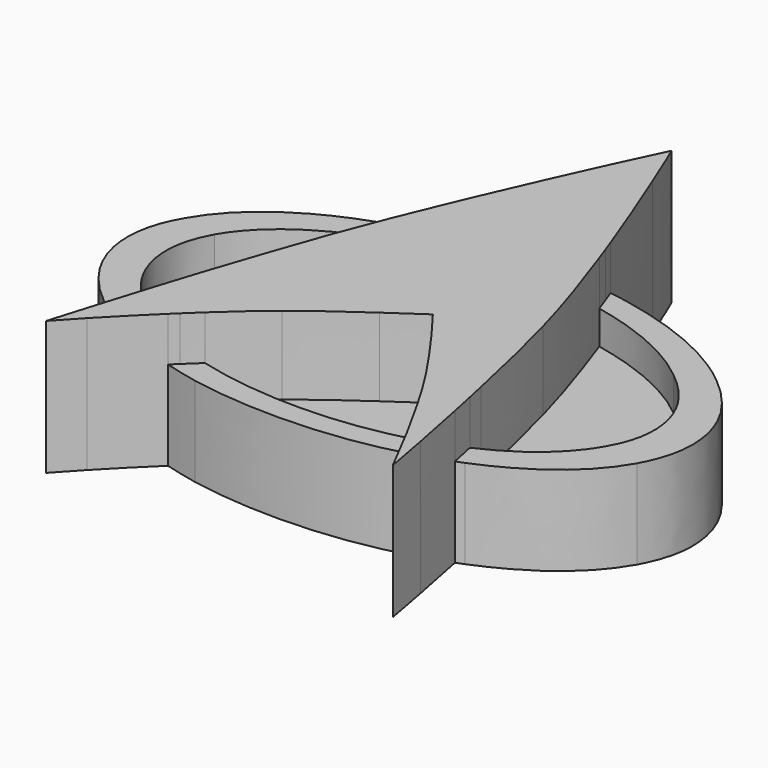
from build123d import *

# Parameters (mm, degrees)
F1_DEPTH = 12
F2_DEPTH = 8
F3_DEPTH = 5


with BuildPart() as f1:
    # F0 (on Top) → F1 (new body)
    with BuildSketch(Plane.XY):
        with BuildLine():
            add(Edge.make_bspline(
                [(-1.4531815777, 11.7301626551), (0.7233897885, 11.7301626551), (2.810070669, 11.5840887987), (4.8068605613, 11.291941086)],
                knots=[0, 0, 0, 0, 0.7950144081, 0.7950144081, 0.7950144081, 0.7950144081], degree=3))
            add(Edge.make_bspline(
                [(1.2668184223, 20.4234906551), (2.5033827063, 17.3796402471), (3.6833962836, 14.3357906343), (4.8068605724, 11.2919411076)],
                knots=[0, 0, 0, 0, 0.891752875, 0.891752875, 0.891752875, 0.891752875], degree=3))
            add(Edge.make_bspline(
                [(-0.5465175777, 24.7968266551), (-0.5109445777, 24.7968266551), (0.0935014223, 23.3390476551), (1.2668184223, 20.4234906551)],
                knots=[0, 0, 0, 0, 1, 1, 1, 1], degree=3))
            add(Edge.make_bspline(
                [(-2.5198455777, 20.6368266551), (-1.2398455777, 23.4101596551), (-0.5820695777, 24.7968266551), (-0.5465175777, 24.7968266551)],
                knots=[0, 0, 0, 0, 1, 1, 1, 1], degree=3))
            add(Edge.make_bspline(
                [(-6.6264275229, 11.4255176474), (-5.2736146078, 14.5601335147), (-3.9047539594, 17.6305701364), (-2.5198455777, 20.6368266551)],
                knots=[0.0499887283, 0.0499887283, 0.0499887283, 0.0499887283, 1, 1, 1, 1], degree=3))
            add(Edge.make_bspline(
                [(-6.626427534, 11.4255176702), (-4.9518282348, 11.6286143268), (-3.2274129278, 11.7301626551), (-1.4531815777, 11.7301626551)],
                knots=[0.6717087496, 0.6717087496, 0.6717087496, 0.6717087496, 1, 1, 1, 1], degree=3))
        make_face()
        with BuildLine():
            add(Edge.make_bspline(
                [(5.6539261047, 8.9627803018), (5.4905337572, 8.9972850323), (5.3259431964, 9.03085515), (5.1601544223, 9.0634906551)],
                knots=[0.9632849375, 0.9632849375, 0.9632849375, 0.9632849375, 1, 1, 1, 1], degree=3))
            add(Edge.make_bspline(
                [(5.2134824223, 10.1834906551), (5.3635979622, 9.7706729423), (5.510412523, 9.3637694912), (5.6539261047, 8.9627803018)],
                knots=[0, 0, 0, 0, 0.087958307, 0.087958307, 0.087958307, 0.087958307], degree=3))
            add(Edge.make_bspline(
                [(4.8068605724, 11.2919411076), (4.9432344296, 10.9224576226), (5.0787750454, 10.5529741388), (5.2134824223, 10.1834906551)],
                knots=[0.891752875, 0.891752875, 0.891752875, 0.891752875, 1, 1, 1, 1], degree=3))
            add(Edge.make_bspline(
                [(-1.4531815777, 11.7301626551), (0.7233897885, 11.7301626551), (2.810070669, 11.5840887987), (4.8068605613, 11.291941086)],
                knots=[0, 0, 0, 0, 0.7950144081, 0.7950144081, 0.7950144081, 0.7950144081], degree=3))
            add(Edge.make_bspline(
                [(-6.626427534, 11.4255176702), (-4.9518282348, 11.6286143268), (-3.2274129278, 11.7301626551), (-1.4531815777, 11.7301626551)],
                knots=[0.6717087496, 0.6717087496, 0.6717087496, 0.6717087496, 1, 1, 1, 1], degree=3))
            add(Edge.make_bspline(
                [(-6.8398455777, 10.9301626551), (-6.7687506585, 11.0954586833), (-6.6976113069, 11.2605770141), (-6.6264275229, 11.4255176474)],
                knots=[0, 0, 0, 0, 0.0499887283, 0.0499887283, 0.0499887283, 0.0499887283], degree=3))
            add(Edge.make_bspline(
                [(-7.5797278664, 9.2083211936), (-7.3390801697, 9.7736724398), (-7.0924527391, 10.3476195916), (-6.8398455777, 10.9301626551)],
                knots=[0.8550087925, 0.8550087925, 0.8550087925, 0.8550087925, 1, 1, 1, 1], degree=3))
            add(Edge.make_bspline(
                [(-1.6131815777, 9.7034906551), (-3.6737940745, 9.7034906551), (-5.6626428374, 9.5384341679), (-7.5797278664, 9.2083211936)],
                knots=[0, 0, 0, 0, 0.4492614129, 0.4492614129, 0.4492614129, 0.4492614129], degree=3))
            add(Edge.make_bspline(
                [(5.1601544223, 9.0634906551), (2.9201544223, 9.4901566551), (0.6623754223, 9.7034906551), (-1.6131815777, 9.7034906551)],
                knots=[0, 0, 0, 0, 1, 1, 1, 1], degree=3))
        make_face()
        with BuildLine():
            add(Edge.make_bspline(
                [(8.464063117, -14.4500767678), (7.9941080763, -13.6693761417), (7.5505811666, -12.960408334), (7.1334824223, -12.3231733449)],
                knots=[0.6741416061, 0.6741416061, 0.6741416061, 0.6741416061, 1, 1, 1, 1], degree=3))
            add(Edge.make_bspline(
                [(8.464063117, -14.4500767678), (9.3194202469, -14.1861228983), (10.1558933454, -13.8860430907), (10.9734824223, -13.5498373449)],
                knots=[0.7850962475, 0.7850962475, 0.7850962475, 0.7850962475, 1, 1, 1, 1], degree=3))
            add(Edge.make_bspline(
                [(10.9734824223, -13.5498373449), (11.2457602365, -13.4363882557), (11.5122283644, -13.3202577731), (11.7728868063, -13.2014458969)],
                knots=[0, 0, 0, 0, 0.0709056808, 0.0709056808, 0.0709056808, 0.0709056808], degree=3))
            add(Edge.make_bspline(
                [(11.4001544223, -11.4698373449), (11.5272373981, -12.054421464), (11.6514815357, -12.6316243227), (11.7728868235, -13.2014459207)],
                knots=[0, 0, 0, 0, 0.1787109653, 0.1787109653, 0.1787109653, 0.1787109653], degree=3))
            add(Edge.make_bspline(
                [(9.0534824223, -1.6031733449), (9.7645974223, -4.1987313449), (10.5468214223, -7.4876193449), (11.4001544223, -11.4698373449)],
                knots=[0, 0, 0, 0, 1, 1, 1, 1], degree=3))
            add(Edge.make_bspline(
                [(5.6539261047, 8.9627803018), (7.1420217091, 4.8049142431), (8.2752071483, 1.2829296942), (9.0534824223, -1.6031733449)],
                knots=[0.087958307, 0.087958307, 0.087958307, 0.087958307, 1, 1, 1, 1], degree=3))
            add(Edge.make_bspline(
                [(5.6539261047, 8.9627803018), (5.4905337572, 8.9972850323), (5.3259431964, 9.03085515), (5.1601544223, 9.0634906551)],
                knots=[0.9632849375, 0.9632849375, 0.9632849375, 0.9632849375, 1, 1, 1, 1], degree=3))
            add(Edge.make_bspline(
                [(5.1601544223, 9.0634906551), (2.9201544223, 9.4901566551), (0.6623754223, 9.7034906551), (-1.6131815777, 9.7034906551)],
                knots=[0, 0, 0, 0, 1, 1, 1, 1], degree=3))
            add(Edge.make_bspline(
                [(-1.6131815777, 9.7034906551), (-3.6737940745, 9.7034906551), (-5.6626428374, 9.5384341679), (-7.5797278664, 9.2083211936)],
                knots=[0, 0, 0, 0, 0.4492614129, 0.4492614129, 0.4492614129, 0.4492614129], degree=3))
            add(Edge.make_bspline(
                [(-11.2131815777, 0.1034906551), (-10.2099715461, 2.8395187912), (-8.9988201007, 5.8744618873), (-7.5797278664, 9.2083211936)],
                knots=[0, 0, 0, 0, 0.8550087925, 0.8550087925, 0.8550087925, 0.8550087925], degree=3))
            add(Edge.make_bspline(
                [(-14.6265175777, -9.8165093449), (-13.4887365777, -6.3676193449), (-12.3509575777, -3.0609523449), (-11.2131815777, 0.1034906551)],
                knots=[0, 0, 0, 0, 1, 1, 1, 1], degree=3))
            add(Edge.make_bspline(
                [(-15.6386486362, -12.985674488), (-15.233880432, -11.6987374646), (-14.8965034422, -10.642349143), (-14.6265175777, -9.8165093449)],
                knots=[0.5533311421, 0.5533311421, 0.5533311421, 0.5533311421, 1, 1, 1, 1], degree=3))
            add(Edge.make_bspline(
                [(-15.6386486355, -12.9856744871), (-14.1706370526, -13.6951825669), (-12.5416633345, -14.2847581951), (-10.7517275561, -14.7544012221)],
                knots=[0.4115792807, 0.4115792807, 0.4115792807, 0.4115792807, 0.832924486, 0.832924486, 0.832924486, 0.832924486], degree=3))
            add(Edge.make_bspline(
                [(-6.6798455777, -11.2031733449), (-7.9512044067, -12.2257890522), (-9.3084985561, -13.4095315214), (-10.7517275561, -14.7544012221)],
                knots=[0, 0, 0, 0, 0.7773246845, 0.7773246845, 0.7773246845, 0.7773246845], degree=3))
            add(Edge.make_bspline(
                [(-1.1865175777, -7.1498373449), (-3.6398505777, -8.8565043449), (-5.4709605777, -10.2076163449), (-6.6798455777, -11.2031733449)],
                knots=[0, 0, 0, 0, 1, 1, 1, 1], degree=3))
            add(Edge.make_bspline(
                [(1.9068184223, -5.0165093449), (0.5912614223, -5.9053953449), (-0.4398505777, -6.6165043449), (-1.1865175777, -7.1498373449)],
                knots=[0, 0, 0, 0, 1, 1, 1, 1], degree=3))
            add(Edge.make_bspline(
                [(3.8268184223, -7.5765093449), (3.3645944223, -6.9365093449), (2.7245944223, -6.0831763449), (1.9068184223, -5.0165093449)],
                knots=[0, 0, 0, 0, 1, 1, 1, 1], degree=3))
            add(Edge.make_bspline(
                [(7.1334824223, -12.3231733449), (6.2445974223, -10.9720643449), (5.1423754223, -9.3898433449), (3.8268184223, -7.5765093449)],
                knots=[0, 0, 0, 0, 1, 1, 1, 1], degree=3))
        make_face()
        with BuildLine():
            add(Edge.make_bspline(
                [(-12.6353390022, -16.5486190627), (-13.9495070847, -16.1735784882), (-15.1867956587, -15.741541003), (-16.347204765, -15.252506607)],
                knots=[0.2006849303, 0.2006849303, 0.2006849303, 0.2006849303, 0.4737412626, 0.4737412626, 0.4737412626, 0.4737412626], degree=3))
            add(Edge.make_bspline(
                [(-12.0131815777, -15.9498373449), (-12.2225201788, -16.1502681737), (-12.4299059877, -16.3498620803), (-12.6353390022, -16.5486190627)],
                knots=[0, 0, 0, 0, 0.125269268, 0.125269268, 0.125269268, 0.125269268], degree=3))
            add(Edge.make_bspline(
                [(-10.7517275561, -14.7544012221), (-11.1651602944, -15.1396575903), (-11.5856449719, -15.5381362942), (-12.0131815777, -15.9498373449)],
                knots=[0.7773246845, 0.7773246845, 0.7773246845, 0.7773246845, 1, 1, 1, 1], degree=3))
            add(Edge.make_bspline(
                [(-15.6386486355, -12.9856744871), (-14.1706370526, -13.6951825669), (-12.5416633345, -14.2847581951), (-10.7517275561, -14.7544012221)],
                knots=[0.4115792807, 0.4115792807, 0.4115792807, 0.4115792807, 0.832924486, 0.832924486, 0.832924486, 0.832924486], degree=3))
            add(Edge.make_bspline(
                [(-16.3472047665, -15.2525066097), (-16.0916780824, -14.4307283398), (-15.8554927103, -13.6751176417), (-15.6386486362, -12.985674488)],
                knots=[0.3140398788, 0.3140398788, 0.3140398788, 0.3140398788, 0.5533311421, 0.5533311421, 0.5533311421, 0.5533311421], degree=3))
        make_face()
        with BuildLine():
            add(Edge.make_bspline(
                [(-12.6353390022, -16.5486190627), (-14.0698374555, -17.9365000928), (-15.4091185371, -19.2835730767), (-16.6531815777, -20.5898373449)],
                knots=[0.125269268, 0.125269268, 0.125269268, 0.125269268, 1, 1, 1, 1], degree=3))
            add(Edge.make_bspline(
                [(-12.6353390022, -16.5486190627), (-13.9495070847, -16.1735784882), (-15.1867956587, -15.741541003), (-16.347204765, -15.252506607)],
                knots=[0.2006849303, 0.2006849303, 0.2006849303, 0.2006849303, 0.4737412626, 0.4737412626, 0.4737412626, 0.4737412626], degree=3))
            add(Edge.make_bspline(
                [(-17.4531815777, -18.8298373449), (-17.0512105328, -17.5234314491), (-16.6825516061, -16.3309878913), (-16.3472047665, -15.2525066097)],
                knots=[0, 0, 0, 0, 0.3140398788, 0.3140398788, 0.3140398788, 0.3140398788], degree=3))
            add(Edge.make_bspline(
                [(-18.6265175777, -22.7231733449), (-18.2354025777, -21.4431733449), (-17.8442905777, -20.1453953449), (-17.4531815777, -18.8298373449)],
                knots=[0, 0, 0, 0, 1, 1, 1, 1], degree=3))
            add(Edge.make_bspline(
                [(-16.6531815777, -20.5898373449), (-17.3287385777, -21.3009523449), (-17.9865175777, -22.0120643449), (-18.6265175777, -22.7231733449)],
                knots=[0, 0, 0, 0, 1, 1, 1, 1], degree=3))
        make_face()
        with BuildLine():
            add(Edge.make_bspline(
                [(9.5967249593, -16.3811875932), (9.2035002428, -15.6949494144), (8.82594629, -15.0512458059), (8.464063117, -14.4500767678)],
                knots=[0.4232183063, 0.4232183063, 0.4232183063, 0.4232183063, 0.6741416061, 0.6741416061, 0.6741416061, 0.6741416061], degree=3))
            add(Edge.make_bspline(
                [(12.2512191941, -15.4793214616), (11.3825109105, -15.8134797777), (10.4976794993, -16.1141018251), (9.5967249607, -16.3811876107)],
                knots=[0.0510914301, 0.0510914301, 0.0510914301, 0.0510914301, 0.241557056, 0.241557056, 0.241557056, 0.241557056], degree=3))
            add(Edge.make_bspline(
                [(11.7728868235, -13.2014459207), (11.9375534539, -13.9743167248), (12.0969975849, -14.7336085683), (12.2512191882, -15.4793214513)],
                knots=[0.1787109653, 0.1787109653, 0.1787109653, 0.1787109653, 0.4211034753, 0.4211034753, 0.4211034753, 0.4211034753], degree=3))
            add(Edge.make_bspline(
                [(10.9734824223, -13.5498373449), (11.2457602365, -13.4363882557), (11.5122283644, -13.3202577731), (11.7728868063, -13.2014458969)],
                knots=[0, 0, 0, 0, 0.0709056808, 0.0709056808, 0.0709056808, 0.0709056808], degree=3))
            add(Edge.make_bspline(
                [(8.464063117, -14.4500767678), (9.3194202469, -14.1861228983), (10.1558933454, -13.8860430907), (10.9734824223, -13.5498373449)],
                knots=[0.7850962475, 0.7850962475, 0.7850962475, 0.7850962475, 1, 1, 1, 1], degree=3))
        make_face()
        with BuildLine():
            add(Edge.make_bspline(
                [(14.0134824223, -24.6431733449), (13.0534824223, -22.7942833449), (12.2890394223, -21.3187283449), (11.7201544223, -20.2165093449)],
                knots=[0, 0, 0, 0, 1, 1, 1, 1], degree=3))
            add(Edge.make_bspline(
                [(13.2668184223, -20.5898373449), (13.5157094223, -21.9409523449), (13.7645974223, -23.2920643449), (14.0134824223, -24.6431733449)],
                knots=[0, 0, 0, 0, 1, 1, 1, 1], degree=3))
            add(Edge.make_bspline(
                [(12.2512191882, -15.4793214513), (12.6195405947, -17.2602782822), (12.9580738021, -18.96378358), (13.2668184223, -20.5898373449)],
                knots=[0.4211034753, 0.4211034753, 0.4211034753, 0.4211034753, 1, 1, 1, 1], degree=3))
            add(Edge.make_bspline(
                [(12.2512191941, -15.4793214616), (11.3825109105, -15.8134797777), (10.4976794993, -16.1141018251), (9.5967249607, -16.3811876107)],
                knots=[0.0510914301, 0.0510914301, 0.0510914301, 0.0510914301, 0.241557056, 0.241557056, 0.241557056, 0.241557056], degree=3))
            add(Edge.make_bspline(
                [(11.7201544223, -20.2165093449), (10.9677649586, -18.817067761), (10.2599551124, -17.5386271772), (9.5967249593, -16.3811875932)],
                knots=[0, 0, 0, 0, 0.4232183063, 0.4232183063, 0.4232183063, 0.4232183063], degree=3))
        make_face()
    extrude(amount=F1_DEPTH)

    # F0 (on Top) → F2 (join)
    with BuildSketch(Plane.XY):
        with BuildLine():
            add(Edge.make_bspline(
                [(-16.347204765, -15.252506607), (-18.5836496262, -14.3099955082), (-20.5345297999, -13.1557724208), (-22.1998455777, -11.7898373449)],
                knots=[0.4737412626, 0.4737412626, 0.4737412626, 0.4737412626, 1, 1, 1, 1], degree=3))
            add(Edge.make_bspline(
                [(-16.3472047665, -15.2525066097), (-16.0916780824, -14.4307283398), (-15.8554927103, -13.6751176417), (-15.6386486362, -12.985674488)],
                knots=[0.3140398788, 0.3140398788, 0.3140398788, 0.3140398788, 0.5533311421, 0.5533311421, 0.5533311421, 0.5533311421], degree=3))
            add(Edge.make_bspline(
                [(-19.4798455777, -10.5631733449), (-18.3530337008, -11.4851109337), (-17.0726346968, -12.292611361), (-15.6386486355, -12.9856744871)],
                knots=[0, 0, 0, 0, 0.4115792807, 0.4115792807, 0.4115792807, 0.4115792807], degree=3))
            add(Edge.make_bspline(
                [(-23.5331815777, -3.0965093449), (-23.5331815777, -5.7987283449), (-22.1820695777, -8.2876163449), (-19.4798455777, -10.5631733449)],
                knots=[0, 0, 0, 0, 1, 1, 1, 1], degree=3))
            add(Edge.make_bspline(
                [(-22.4131815777, 0.9034906551), (-23.1598485777, -0.4476193449), (-23.5331815777, -1.7809523449), (-23.5331815777, -3.0965093449)],
                knots=[0, 0, 0, 0, 1, 1, 1, 1], degree=3))
            add(Edge.make_bspline(
                [(-14.3065175777, 7.2501626551), (-18.1820695777, 5.6501626551), (-20.8842905777, 3.5346046551), (-22.4131815777, 0.9034906551)],
                knots=[0, 0, 0, 0, 1, 1, 1, 1], degree=3))
            add(Edge.make_bspline(
                [(-7.5797278664, 9.2083211936), (-9.9298355541, 8.8036437656), (-12.1720987912, 8.1509242527), (-14.3065175777, 7.2501626551)],
                knots=[0.4492614129, 0.4492614129, 0.4492614129, 0.4492614129, 1, 1, 1, 1], degree=3))
            add(Edge.make_bspline(
                [(-7.5797278664, 9.2083211936), (-7.3390801697, 9.7736724398), (-7.0924527391, 10.3476195916), (-6.8398455777, 10.9301626551)],
                knots=[0.8550087925, 0.8550087925, 0.8550087925, 0.8550087925, 1, 1, 1, 1], degree=3))
            add(Edge.make_bspline(
                [(-6.8398455777, 10.9301626551), (-6.7687506585, 11.0954586833), (-6.6976113069, 11.2605770141), (-6.6264275229, 11.4255176474)],
                knots=[0, 0, 0, 0, 0.0499887283, 0.0499887283, 0.0499887283, 0.0499887283], degree=3))
            add(Edge.make_bspline(
                [(-16.2798455777, 8.9034906551), (-13.2705903794, 10.1692908649), (-10.0527844659, 11.0099665366), (-6.626427534, 11.4255176702)],
                knots=[0, 0, 0, 0, 0.6717087496, 0.6717087496, 0.6717087496, 0.6717087496], degree=3))
            add(Edge.make_bspline(
                [(-25.6131815777, 1.4901626551), (-23.8709575777, 4.5834956551), (-20.7598455777, 7.0546046551), (-16.2798455777, 8.9034906551)],
                knots=[0, 0, 0, 0, 1, 1, 1, 1], degree=3))
            add(Edge.make_bspline(
                [(-26.9465155777, -3.1498373449), (-26.9465155777, -1.5853953449), (-26.5020705777, -0.0387283449), (-25.6131815777, 1.4901626551)],
                knots=[0, 0, 0, 0, 1, 1, 1, 1], degree=3))
            add(Edge.make_bspline(
                [(-22.1998455777, -11.7898373449), (-25.3642915777, -9.1587283449), (-26.9465155777, -6.2787283449), (-26.9465155777, -3.1498373449)],
                knots=[0, 0, 0, 0, 1, 1, 1, 1], degree=3))
        make_face()
        with BuildLine():
            add(Edge.make_bspline(
                [(5.6539261047, 8.9627803018), (5.4905337572, 8.9972850323), (5.3259431964, 9.03085515), (5.1601544223, 9.0634906551)],
                knots=[0.9632849375, 0.9632849375, 0.9632849375, 0.9632849375, 1, 1, 1, 1], degree=3))
            add(Edge.make_bspline(
                [(5.2134824223, 10.1834906551), (5.3635979622, 9.7706729423), (5.510412523, 9.3637694912), (5.6539261047, 8.9627803018)],
                knots=[0, 0, 0, 0, 0.087958307, 0.087958307, 0.087958307, 0.087958307], degree=3))
            add(Edge.make_bspline(
                [(4.8068605724, 11.2919411076), (4.9432344296, 10.9224576226), (5.0787750454, 10.5529741388), (5.2134824223, 10.1834906551)],
                knots=[0.891752875, 0.891752875, 0.891752875, 0.891752875, 1, 1, 1, 1], degree=3))
            add(Edge.make_bspline(
                [(-1.4531815777, 11.7301626551), (0.7233897885, 11.7301626551), (2.810070669, 11.5840887987), (4.8068605613, 11.291941086)],
                knots=[0, 0, 0, 0, 0.7950144081, 0.7950144081, 0.7950144081, 0.7950144081], degree=3))
            add(Edge.make_bspline(
                [(-6.626427534, 11.4255176702), (-4.9518282348, 11.6286143268), (-3.2274129278, 11.7301626551), (-1.4531815777, 11.7301626551)],
                knots=[0.6717087496, 0.6717087496, 0.6717087496, 0.6717087496, 1, 1, 1, 1], degree=3))
            add(Edge.make_bspline(
                [(-6.8398455777, 10.9301626551), (-6.7687506585, 11.0954586833), (-6.6976113069, 11.2605770141), (-6.6264275229, 11.4255176474)],
                knots=[0, 0, 0, 0, 0.0499887283, 0.0499887283, 0.0499887283, 0.0499887283], degree=3))
            add(Edge.make_bspline(
                [(-7.5797278664, 9.2083211936), (-7.3390801697, 9.7736724398), (-7.0924527391, 10.3476195916), (-6.8398455777, 10.9301626551)],
                knots=[0.8550087925, 0.8550087925, 0.8550087925, 0.8550087925, 1, 1, 1, 1], degree=3))
            add(Edge.make_bspline(
                [(-1.6131815777, 9.7034906551), (-3.6737940745, 9.7034906551), (-5.6626428374, 9.5384341679), (-7.5797278664, 9.2083211936)],
                knots=[0, 0, 0, 0, 0.4492614129, 0.4492614129, 0.4492614129, 0.4492614129], degree=3))
            add(Edge.make_bspline(
                [(5.1601544223, 9.0634906551), (2.9201544223, 9.4901566551), (0.6623754223, 9.7034906551), (-1.6131815777, 9.7034906551)],
                knots=[0, 0, 0, 0, 1, 1, 1, 1], degree=3))
        make_face()
        with BuildLine():
            add(Edge.make_bspline(
                [(11.7728868235, -13.2014459207), (11.9375534539, -13.9743167248), (12.0969975849, -14.7336085683), (12.2512191882, -15.4793214513)],
                knots=[0.1787109653, 0.1787109653, 0.1787109653, 0.1787109653, 0.4211034753, 0.4211034753, 0.4211034753, 0.4211034753], degree=3))
            add(Edge.make_bspline(
                [(12.9468184223, -15.2031733449), (12.7161121577, -15.2976358301), (12.4842457483, -15.3896852023), (12.2512191941, -15.4793214616)],
                knots=[0, 0, 0, 0, 0.0510914301, 0.0510914301, 0.0510914301, 0.0510914301], degree=3))
            add(Edge.make_bspline(
                [(22.3868184223, -7.7365093449), (20.6445944223, -10.8298433449), (17.4979274223, -13.3187313449), (12.9468184223, -15.2031733449)],
                knots=[0, 0, 0, 0, 1, 1, 1, 1], degree=3))
            add(Edge.make_bspline(
                [(23.6668184223, -3.1498373449), (23.6668184223, -4.6431713449), (23.2401514223, -6.1720613449), (22.3868184223, -7.7365093449)],
                knots=[0, 0, 0, 0, 1, 1, 1, 1], degree=3))
            add(Edge.make_bspline(
                [(18.9201544223, 5.5434906551), (22.0845974223, 2.9123806551), (23.6668184223, 0.0146046551), (23.6668184223, -3.1498373449)],
                knots=[0, 0, 0, 0, 1, 1, 1, 1], degree=3))
            add(Edge.make_bspline(
                [(6.3334824223, 11.0368266551), (11.5601494223, 10.0057166551), (15.7557064223, 8.1746046551), (18.9201544223, 5.5434906551)],
                knots=[0, 0, 0, 0, 1, 1, 1, 1], degree=3))
            add(Edge.make_bspline(
                [(4.8068605613, 11.291941086), (5.3217105487, 11.216614059), (5.8305845052, 11.1315759153), (6.3334824223, 11.0368266551)],
                knots=[0.7950144081, 0.7950144081, 0.7950144081, 0.7950144081, 1, 1, 1, 1], degree=3))
            add(Edge.make_bspline(
                [(4.8068605724, 11.2919411076), (4.9432344296, 10.9224576226), (5.0787750454, 10.5529741388), (5.2134824223, 10.1834906551)],
                knots=[0.891752875, 0.891752875, 0.891752875, 0.891752875, 1, 1, 1, 1], degree=3))
            add(Edge.make_bspline(
                [(5.2134824223, 10.1834906551), (5.3635979622, 9.7706729423), (5.510412523, 9.3637694912), (5.6539261047, 8.9627803018)],
                knots=[0, 0, 0, 0, 0.087958307, 0.087958307, 0.087958307, 0.087958307], degree=3))
            add(Edge.make_bspline(
                [(16.0401544223, 4.3168266551), (13.402891223, 6.5088364375), (9.9408148191, 8.0574873551), (5.6539261047, 8.9627803018)],
                knots=[0, 0, 0, 0, 0.9632849375, 0.9632849375, 0.9632849375, 0.9632849375], degree=3))
            add(Edge.make_bspline(
                [(20.2001544223, -3.0965093449), (20.2001544223, -0.3942853449), (18.8134874223, 2.0768266551), (16.0401544223, 4.3168266551)],
                knots=[0, 0, 0, 0, 1, 1, 1, 1], degree=3))
            add(Edge.make_bspline(
                [(19.0268184223, -7.1498373449), (19.8090424223, -5.8342853449), (20.2001544223, -4.4831763449), (20.2001544223, -3.0965093449)],
                knots=[0, 0, 0, 0, 1, 1, 1, 1], degree=3))
            add(Edge.make_bspline(
                [(11.7728868063, -13.2014458969), (15.1883575415, -11.6446250892), (17.6063344795, -9.6274225059), (19.0268184223, -7.1498373449)],
                knots=[0.0709056808, 0.0709056808, 0.0709056808, 0.0709056808, 1, 1, 1, 1], degree=3))
        make_face()
        with BuildLine():
            add(Edge.make_bspline(
                [(9.5967249607, -16.3811876107), (6.0090822611, -17.4447355789), (2.1657800817, -17.9765093449), (-1.9331815777, -17.9765093449)],
                knots=[0.241557056, 0.241557056, 0.241557056, 0.241557056, 1, 1, 1, 1], degree=3))
            add(Edge.make_bspline(
                [(9.5967249593, -16.3811875932), (9.2035002428, -15.6949494144), (8.82594629, -15.0512458059), (8.464063117, -14.4500767678)],
                knots=[0.4232183063, 0.4232183063, 0.4232183063, 0.4232183063, 0.6741416061, 0.6741416061, 0.6741416061, 0.6741416061], degree=3))
            add(Edge.make_bspline(
                [(-1.6665175777, -15.8965093449), (1.9623731398, -15.8965093449), (5.33923321, -15.4143651525), (8.464063117, -14.4500767678)],
                knots=[0, 0, 0, 0, 0.7850962475, 0.7850962475, 0.7850962475, 0.7850962475], degree=3))
            add(Edge.make_bspline(
                [(-8.5465175777, -15.2565093449), (-6.2354025777, -15.6831763449), (-3.9420695777, -15.8965093449), (-1.6665175777, -15.8965093449)],
                knots=[0, 0, 0, 0, 1, 1, 1, 1], degree=3))
            add(Edge.make_bspline(
                [(-10.7517275561, -14.7544012221), (-10.0419664473, -14.9406282139), (-9.3068964529, -15.1079975913), (-8.5465175777, -15.2565093449)],
                knots=[0.832924486, 0.832924486, 0.832924486, 0.832924486, 1, 1, 1, 1], degree=3))
            add(Edge.make_bspline(
                [(-10.7517275561, -14.7544012221), (-11.1651602944, -15.1396575903), (-11.5856449719, -15.5381362942), (-12.0131815777, -15.9498373449)],
                knots=[0.7773246845, 0.7773246845, 0.7773246845, 0.7773246845, 1, 1, 1, 1], degree=3))
            add(Edge.make_bspline(
                [(-12.0131815777, -15.9498373449), (-12.2225201788, -16.1502681737), (-12.4299059877, -16.3498620803), (-12.6353390022, -16.5486190627)],
                knots=[0, 0, 0, 0, 0.125269268, 0.125269268, 0.125269268, 0.125269268], degree=3))
            add(Edge.make_bspline(
                [(-9.6131815777, -17.2831733449), (-10.6620948804, -17.069109553), (-11.6694806832, -16.8242581256), (-12.6353390022, -16.5486190627)],
                knots=[0, 0, 0, 0, 0.2006849303, 0.2006849303, 0.2006849303, 0.2006849303], degree=3))
            add(Edge.make_bspline(
                [(-1.9331815777, -17.9765093449), (-4.5998485777, -17.9765093449), (-7.1598485777, -17.7453973449), (-9.6131815777, -17.2831733449)],
                knots=[0, 0, 0, 0, 1, 1, 1, 1], degree=3))
        make_face()
        with BuildLine():
            add(Edge.make_bspline(
                [(-12.6353390022, -16.5486190627), (-13.9495070847, -16.1735784882), (-15.1867956587, -15.741541003), (-16.347204765, -15.252506607)],
                knots=[0.2006849303, 0.2006849303, 0.2006849303, 0.2006849303, 0.4737412626, 0.4737412626, 0.4737412626, 0.4737412626], degree=3))
            add(Edge.make_bspline(
                [(-12.0131815777, -15.9498373449), (-12.2225201788, -16.1502681737), (-12.4299059877, -16.3498620803), (-12.6353390022, -16.5486190627)],
                knots=[0, 0, 0, 0, 0.125269268, 0.125269268, 0.125269268, 0.125269268], degree=3))
            add(Edge.make_bspline(
                [(-10.7517275561, -14.7544012221), (-11.1651602944, -15.1396575903), (-11.5856449719, -15.5381362942), (-12.0131815777, -15.9498373449)],
                knots=[0.7773246845, 0.7773246845, 0.7773246845, 0.7773246845, 1, 1, 1, 1], degree=3))
            add(Edge.make_bspline(
                [(-15.6386486355, -12.9856744871), (-14.1706370526, -13.6951825669), (-12.5416633345, -14.2847581951), (-10.7517275561, -14.7544012221)],
                knots=[0.4115792807, 0.4115792807, 0.4115792807, 0.4115792807, 0.832924486, 0.832924486, 0.832924486, 0.832924486], degree=3))
            add(Edge.make_bspline(
                [(-16.3472047665, -15.2525066097), (-16.0916780824, -14.4307283398), (-15.8554927103, -13.6751176417), (-15.6386486362, -12.985674488)],
                knots=[0.3140398788, 0.3140398788, 0.3140398788, 0.3140398788, 0.5533311421, 0.5533311421, 0.5533311421, 0.5533311421], degree=3))
        make_face()
        with BuildLine():
            add(Edge.make_bspline(
                [(9.5967249593, -16.3811875932), (9.2035002428, -15.6949494144), (8.82594629, -15.0512458059), (8.464063117, -14.4500767678)],
                knots=[0.4232183063, 0.4232183063, 0.4232183063, 0.4232183063, 0.6741416061, 0.6741416061, 0.6741416061, 0.6741416061], degree=3))
            add(Edge.make_bspline(
                [(12.2512191941, -15.4793214616), (11.3825109105, -15.8134797777), (10.4976794993, -16.1141018251), (9.5967249607, -16.3811876107)],
                knots=[0.0510914301, 0.0510914301, 0.0510914301, 0.0510914301, 0.241557056, 0.241557056, 0.241557056, 0.241557056], degree=3))
            add(Edge.make_bspline(
                [(11.7728868235, -13.2014459207), (11.9375534539, -13.9743167248), (12.0969975849, -14.7336085683), (12.2512191882, -15.4793214513)],
                knots=[0.1787109653, 0.1787109653, 0.1787109653, 0.1787109653, 0.4211034753, 0.4211034753, 0.4211034753, 0.4211034753], degree=3))
            add(Edge.make_bspline(
                [(10.9734824223, -13.5498373449), (11.2457602365, -13.4363882557), (11.5122283644, -13.3202577731), (11.7728868063, -13.2014458969)],
                knots=[0, 0, 0, 0, 0.0709056808, 0.0709056808, 0.0709056808, 0.0709056808], degree=3))
            add(Edge.make_bspline(
                [(8.464063117, -14.4500767678), (9.3194202469, -14.1861228983), (10.1558933454, -13.8860430907), (10.9734824223, -13.5498373449)],
                knots=[0.7850962475, 0.7850962475, 0.7850962475, 0.7850962475, 1, 1, 1, 1], degree=3))
        make_face()
    extrude(amount=F2_DEPTH)

    # F0 (on Top) → F3 (join)
    with BuildSketch(Plane.XY):
        with BuildLine():
            add(Edge.make_bspline(
                [(-19.4798455777, -10.5631733449), (-18.3530337008, -11.4851109337), (-17.0726346968, -12.292611361), (-15.6386486355, -12.9856744871)],
                knots=[0, 0, 0, 0, 0.4115792807, 0.4115792807, 0.4115792807, 0.4115792807], degree=3))
            add(Edge.make_bspline(
                [(-15.6386486362, -12.985674488), (-15.233880432, -11.6987374646), (-14.8965034422, -10.642349143), (-14.6265175777, -9.8165093449)],
                knots=[0.5533311421, 0.5533311421, 0.5533311421, 0.5533311421, 1, 1, 1, 1], degree=3))
            add(Edge.make_bspline(
                [(-14.6265175777, -9.8165093449), (-13.4887365777, -6.3676193449), (-12.3509575777, -3.0609523449), (-11.2131815777, 0.1034906551)],
                knots=[0, 0, 0, 0, 1, 1, 1, 1], degree=3))
            add(Edge.make_bspline(
                [(-11.2131815777, 0.1034906551), (-10.2099715461, 2.8395187912), (-8.9988201007, 5.8744618873), (-7.5797278664, 9.2083211936)],
                knots=[0, 0, 0, 0, 0.8550087925, 0.8550087925, 0.8550087925, 0.8550087925], degree=3))
            add(Edge.make_bspline(
                [(-7.5797278664, 9.2083211936), (-9.9298355541, 8.8036437656), (-12.1720987912, 8.1509242527), (-14.3065175777, 7.2501626551)],
                knots=[0.4492614129, 0.4492614129, 0.4492614129, 0.4492614129, 1, 1, 1, 1], degree=3))
            add(Edge.make_bspline(
                [(-14.3065175777, 7.2501626551), (-18.1820695777, 5.6501626551), (-20.8842905777, 3.5346046551), (-22.4131815777, 0.9034906551)],
                knots=[0, 0, 0, 0, 1, 1, 1, 1], degree=3))
            add(Edge.make_bspline(
                [(-22.4131815777, 0.9034906551), (-23.1598485777, -0.4476193449), (-23.5331815777, -1.7809523449), (-23.5331815777, -3.0965093449)],
                knots=[0, 0, 0, 0, 1, 1, 1, 1], degree=3))
            add(Edge.make_bspline(
                [(-23.5331815777, -3.0965093449), (-23.5331815777, -5.7987283449), (-22.1820695777, -8.2876163449), (-19.4798455777, -10.5631733449)],
                knots=[0, 0, 0, 0, 1, 1, 1, 1], degree=3))
        make_face()
        with BuildLine():
            add(Edge.make_bspline(
                [(8.464063117, -14.4500767678), (7.9941080763, -13.6693761417), (7.5505811666, -12.960408334), (7.1334824223, -12.3231733449)],
                knots=[0.6741416061, 0.6741416061, 0.6741416061, 0.6741416061, 1, 1, 1, 1], degree=3))
            add(Edge.make_bspline(
                [(8.464063117, -14.4500767678), (9.3194202469, -14.1861228983), (10.1558933454, -13.8860430907), (10.9734824223, -13.5498373449)],
                knots=[0.7850962475, 0.7850962475, 0.7850962475, 0.7850962475, 1, 1, 1, 1], degree=3))
            add(Edge.make_bspline(
                [(10.9734824223, -13.5498373449), (11.2457602365, -13.4363882557), (11.5122283644, -13.3202577731), (11.7728868063, -13.2014458969)],
                knots=[0, 0, 0, 0, 0.0709056808, 0.0709056808, 0.0709056808, 0.0709056808], degree=3))
            add(Edge.make_bspline(
                [(11.4001544223, -11.4698373449), (11.5272373981, -12.054421464), (11.6514815357, -12.6316243227), (11.7728868235, -13.2014459207)],
                knots=[0, 0, 0, 0, 0.1787109653, 0.1787109653, 0.1787109653, 0.1787109653], degree=3))
            add(Edge.make_bspline(
                [(9.0534824223, -1.6031733449), (9.7645974223, -4.1987313449), (10.5468214223, -7.4876193449), (11.4001544223, -11.4698373449)],
                knots=[0, 0, 0, 0, 1, 1, 1, 1], degree=3))
            add(Edge.make_bspline(
                [(5.6539261047, 8.9627803018), (7.1420217091, 4.8049142431), (8.2752071483, 1.2829296942), (9.0534824223, -1.6031733449)],
                knots=[0.087958307, 0.087958307, 0.087958307, 0.087958307, 1, 1, 1, 1], degree=3))
            add(Edge.make_bspline(
                [(5.6539261047, 8.9627803018), (5.4905337572, 8.9972850323), (5.3259431964, 9.03085515), (5.1601544223, 9.0634906551)],
                knots=[0.9632849375, 0.9632849375, 0.9632849375, 0.9632849375, 1, 1, 1, 1], degree=3))
            add(Edge.make_bspline(
                [(5.1601544223, 9.0634906551), (2.9201544223, 9.4901566551), (0.6623754223, 9.7034906551), (-1.6131815777, 9.7034906551)],
                knots=[0, 0, 0, 0, 1, 1, 1, 1], degree=3))
            add(Edge.make_bspline(
                [(-1.6131815777, 9.7034906551), (-3.6737940745, 9.7034906551), (-5.6626428374, 9.5384341679), (-7.5797278664, 9.2083211936)],
                knots=[0, 0, 0, 0, 0.4492614129, 0.4492614129, 0.4492614129, 0.4492614129], degree=3))
            add(Edge.make_bspline(
                [(-11.2131815777, 0.1034906551), (-10.2099715461, 2.8395187912), (-8.9988201007, 5.8744618873), (-7.5797278664, 9.2083211936)],
                knots=[0, 0, 0, 0, 0.8550087925, 0.8550087925, 0.8550087925, 0.8550087925], degree=3))
            add(Edge.make_bspline(
                [(-14.6265175777, -9.8165093449), (-13.4887365777, -6.3676193449), (-12.3509575777, -3.0609523449), (-11.2131815777, 0.1034906551)],
                knots=[0, 0, 0, 0, 1, 1, 1, 1], degree=3))
            add(Edge.make_bspline(
                [(-15.6386486362, -12.985674488), (-15.233880432, -11.6987374646), (-14.8965034422, -10.642349143), (-14.6265175777, -9.8165093449)],
                knots=[0.5533311421, 0.5533311421, 0.5533311421, 0.5533311421, 1, 1, 1, 1], degree=3))
            add(Edge.make_bspline(
                [(-15.6386486355, -12.9856744871), (-14.1706370526, -13.6951825669), (-12.5416633345, -14.2847581951), (-10.7517275561, -14.7544012221)],
                knots=[0.4115792807, 0.4115792807, 0.4115792807, 0.4115792807, 0.832924486, 0.832924486, 0.832924486, 0.832924486], degree=3))
            add(Edge.make_bspline(
                [(-6.6798455777, -11.2031733449), (-7.9512044067, -12.2257890522), (-9.3084985561, -13.4095315214), (-10.7517275561, -14.7544012221)],
                knots=[0, 0, 0, 0, 0.7773246845, 0.7773246845, 0.7773246845, 0.7773246845], degree=3))
            add(Edge.make_bspline(
                [(-1.1865175777, -7.1498373449), (-3.6398505777, -8.8565043449), (-5.4709605777, -10.2076163449), (-6.6798455777, -11.2031733449)],
                knots=[0, 0, 0, 0, 1, 1, 1, 1], degree=3))
            add(Edge.make_bspline(
                [(1.9068184223, -5.0165093449), (0.5912614223, -5.9053953449), (-0.4398505777, -6.6165043449), (-1.1865175777, -7.1498373449)],
                knots=[0, 0, 0, 0, 1, 1, 1, 1], degree=3))
            add(Edge.make_bspline(
                [(3.8268184223, -7.5765093449), (3.3645944223, -6.9365093449), (2.7245944223, -6.0831763449), (1.9068184223, -5.0165093449)],
                knots=[0, 0, 0, 0, 1, 1, 1, 1], degree=3))
            add(Edge.make_bspline(
                [(7.1334824223, -12.3231733449), (6.2445974223, -10.9720643449), (5.1423754223, -9.3898433449), (3.8268184223, -7.5765093449)],
                knots=[0, 0, 0, 0, 1, 1, 1, 1], degree=3))
        make_face()
        with BuildLine():
            add(Edge.make_bspline(
                [(-1.6665175777, -15.8965093449), (1.9623731398, -15.8965093449), (5.33923321, -15.4143651525), (8.464063117, -14.4500767678)],
                knots=[0, 0, 0, 0, 0.7850962475, 0.7850962475, 0.7850962475, 0.7850962475], degree=3))
            add(Edge.make_bspline(
                [(8.464063117, -14.4500767678), (7.9941080763, -13.6693761417), (7.5505811666, -12.960408334), (7.1334824223, -12.3231733449)],
                knots=[0.6741416061, 0.6741416061, 0.6741416061, 0.6741416061, 1, 1, 1, 1], degree=3))
            add(Edge.make_bspline(
                [(7.1334824223, -12.3231733449), (6.2445974223, -10.9720643449), (5.1423754223, -9.3898433449), (3.8268184223, -7.5765093449)],
                knots=[0, 0, 0, 0, 1, 1, 1, 1], degree=3))
            add(Edge.make_bspline(
                [(3.8268184223, -7.5765093449), (3.3645944223, -6.9365093449), (2.7245944223, -6.0831763449), (1.9068184223, -5.0165093449)],
                knots=[0, 0, 0, 0, 1, 1, 1, 1], degree=3))
            add(Edge.make_bspline(
                [(1.9068184223, -5.0165093449), (0.5912614223, -5.9053953449), (-0.4398505777, -6.6165043449), (-1.1865175777, -7.1498373449)],
                knots=[0, 0, 0, 0, 1, 1, 1, 1], degree=3))
            add(Edge.make_bspline(
                [(-1.1865175777, -7.1498373449), (-3.6398505777, -8.8565043449), (-5.4709605777, -10.2076163449), (-6.6798455777, -11.2031733449)],
                knots=[0, 0, 0, 0, 1, 1, 1, 1], degree=3))
            add(Edge.make_bspline(
                [(-6.6798455777, -11.2031733449), (-7.9512044067, -12.2257890522), (-9.3084985561, -13.4095315214), (-10.7517275561, -14.7544012221)],
                knots=[0, 0, 0, 0, 0.7773246845, 0.7773246845, 0.7773246845, 0.7773246845], degree=3))
            add(Edge.make_bspline(
                [(-10.7517275561, -14.7544012221), (-10.0419664473, -14.9406282139), (-9.3068964529, -15.1079975913), (-8.5465175777, -15.2565093449)],
                knots=[0.832924486, 0.832924486, 0.832924486, 0.832924486, 1, 1, 1, 1], degree=3))
            add(Edge.make_bspline(
                [(-8.5465175777, -15.2565093449), (-6.2354025777, -15.6831763449), (-3.9420695777, -15.8965093449), (-1.6665175777, -15.8965093449)],
                knots=[0, 0, 0, 0, 1, 1, 1, 1], degree=3))
        make_face()
        with BuildLine():
            add(Edge.make_bspline(
                [(11.4001544223, -11.4698373449), (11.5272373981, -12.054421464), (11.6514815357, -12.6316243227), (11.7728868235, -13.2014459207)],
                knots=[0, 0, 0, 0, 0.1787109653, 0.1787109653, 0.1787109653, 0.1787109653], degree=3))
            add(Edge.make_bspline(
                [(11.7728868063, -13.2014458969), (15.1883575415, -11.6446250892), (17.6063344795, -9.6274225059), (19.0268184223, -7.1498373449)],
                knots=[0.0709056808, 0.0709056808, 0.0709056808, 0.0709056808, 1, 1, 1, 1], degree=3))
            add(Edge.make_bspline(
                [(19.0268184223, -7.1498373449), (19.8090424223, -5.8342853449), (20.2001544223, -4.4831763449), (20.2001544223, -3.0965093449)],
                knots=[0, 0, 0, 0, 1, 1, 1, 1], degree=3))
            add(Edge.make_bspline(
                [(20.2001544223, -3.0965093449), (20.2001544223, -0.3942853449), (18.8134874223, 2.0768266551), (16.0401544223, 4.3168266551)],
                knots=[0, 0, 0, 0, 1, 1, 1, 1], degree=3))
            add(Edge.make_bspline(
                [(16.0401544223, 4.3168266551), (13.402891223, 6.5088364375), (9.9408148191, 8.0574873551), (5.6539261047, 8.9627803018)],
                knots=[0, 0, 0, 0, 0.9632849375, 0.9632849375, 0.9632849375, 0.9632849375], degree=3))
            add(Edge.make_bspline(
                [(5.6539261047, 8.9627803018), (7.1420217091, 4.8049142431), (8.2752071483, 1.2829296942), (9.0534824223, -1.6031733449)],
                knots=[0.087958307, 0.087958307, 0.087958307, 0.087958307, 1, 1, 1, 1], degree=3))
            add(Edge.make_bspline(
                [(9.0534824223, -1.6031733449), (9.7645974223, -4.1987313449), (10.5468214223, -7.4876193449), (11.4001544223, -11.4698373449)],
                knots=[0, 0, 0, 0, 1, 1, 1, 1], degree=3))
        make_face()
    extrude(amount=F3_DEPTH)


solid = f1.part
